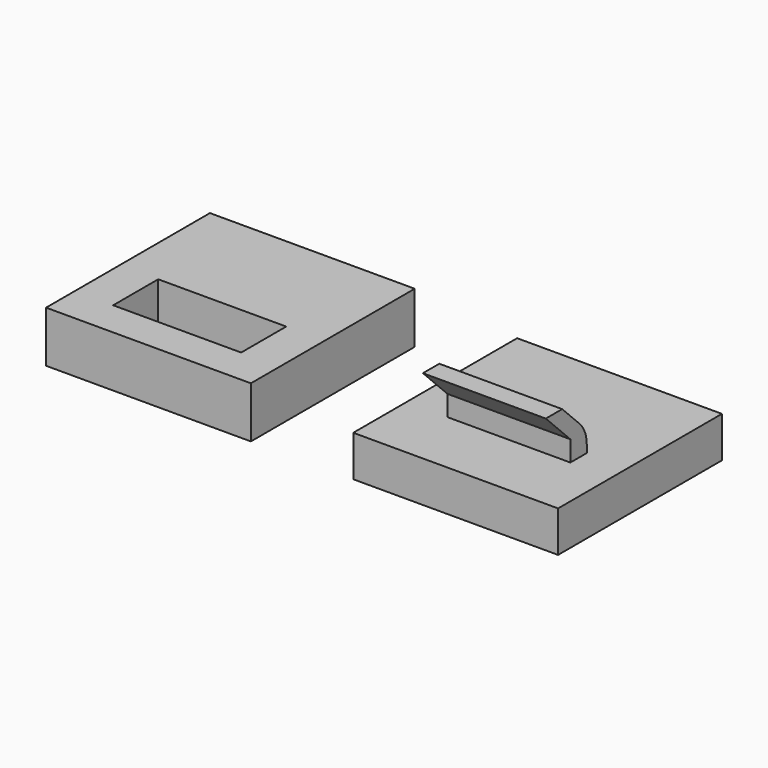
from build123d import *

# Parameters (mm, degrees)
F0_W     = 12
F0_H     = 5
F1_DEPTH = 9
F0_W_2   = 20
F0_H_2   = 20
F2_DEPTH = 4
F0_W_3   = 12.5
F0_H_3   = 2.5
F3_DEPTH = 5
F4_SIZE2 = 3
F4_SIZE  = 3
F6_DEPTH = 12
F7_SIZE  = 3
F8_R     = 3


with BuildPart() as f1:
    # F0 (on Top) → F1 (new body)
    with BuildSketch(Plane.XY):
        with Locations((15, -4)):
            Rectangle(F0_W, F0_H)
    extrude(amount=F1_DEPTH)

    # F0 (on Top) → F2 (join)
    with BuildSketch(Plane.XY):
        with Locations((15, 0)):
            Rectangle(F0_W_2, F0_H_2)
        with Locations((15, -4)):
            Rectangle(F0_W, F0_H, mode=Mode.SUBTRACT)
    extrude(amount=F2_DEPTH)

    # F5 (on face) → F6 (cut)
    with BuildSketch(Plane.YZ.offset(21)):
        Polygon((-3.5, 6), (-6.5, 9), (-6.5, 4), (-3.5, 4), align=None)
    extrude(amount=-F6_DEPTH, mode=Mode.SUBTRACT)

    # F7
    f7_edges = [f1.edges().sort_by_distance(p)[0] for p in [
        (15, -1.5, 9),
    ]]
    chamfer(f7_edges, length=F7_SIZE)

    # F8
    f8_edges = [f1.edges().sort_by_distance(p)[0] for p in [
        (15, -1.5, 6),
    ]]
    fillet(f8_edges, radius=F8_R)


with BuildPart() as f3:
    # F0 (on Top) → F3 (new body)
    with BuildSketch(Plane.XY):
        with Locations((-15, 0)):
            Rectangle(F0_W_2, F0_H_2)
        with Locations((-15, -2.25)):
            Rectangle(F0_W_3, F0_H_3, mode=Mode.SUBTRACT)
    extrude(amount=F3_DEPTH)

    # F4
    f4_edges = [f3.edges().sort_by_distance(p)[0] for p in [
        (-15, -3.5, 5),
    ]]
    chamfer(f4_edges, length=F4_SIZE, length2=F4_SIZE2)


solid = Compound([f1.part, f3.part])
